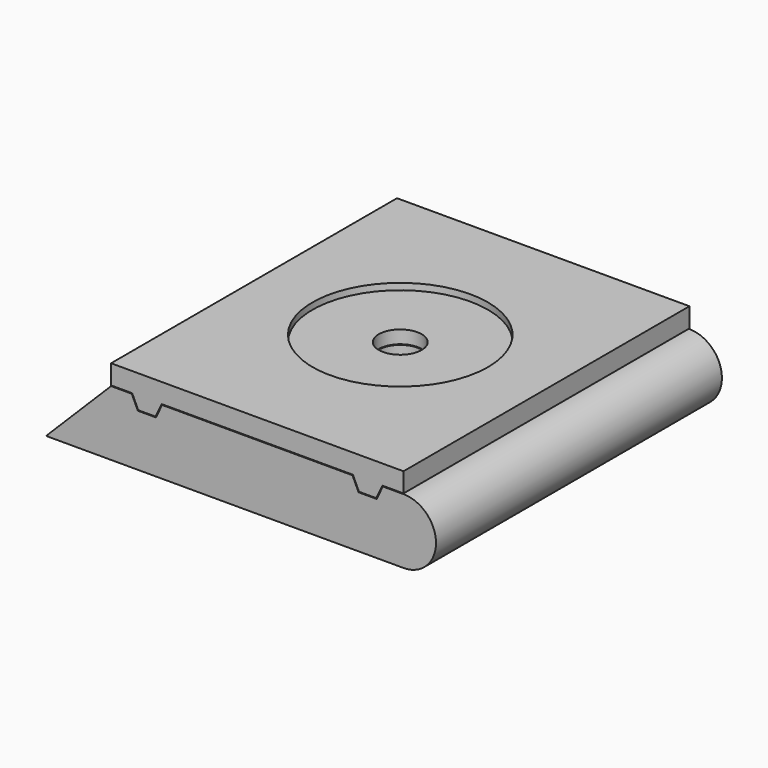
from build123d import *

# Parameters (mm, degrees)
F1_DEPTH  = 55
F3_DEPTH  = 55
F4_R      = 13.5
F5_DEPTH  = 1
F6_R      = 3.3
F7_DEPTH  = 12.101
F8_R      = 3.3
F9_DEPTH  = 25
F10_R     = 6
F11_DEPTH = 7


with BuildPart() as f1:
    # F0 (on Front) → F1 (new body)
    with BuildSketch(Plane.XZ):
        with BuildLine():
            Line((-27.5, -5), (27.5, -5))
            ThreePointArc((27.5, -5), (32.5, 0), (27.5, 5))
            Line((27.5, 5), (24.314648696, 5))
            Line((24.314648696, 5), (23.3820333797, 3))
            Line((23.3820333797, 3), (20.5841874307, 3))
            Line((20.5841874307, 3), (19.6515721144, 5))
            Line((19.6515721144, 5), (-9.6515721144, 5))
            Line((-9.6515721144, 5), (-10.5841874307, 3))
            Line((-10.5841874307, 3), (-13.3820333797, 3))
            Line((-13.3820333797, 3), (-14.314648696, 5))
            Line((-14.314648696, 5), (-17.5, 5))
            Line((-17.5, 5), (-27.5, -5))
        make_face()
    extrude(amount=F1_DEPTH)


with BuildPart() as f3:
    # F2 (on Front) → F3 (new body)
    with BuildSketch(Plane.XZ):
        with BuildLine():
            Line((23.3183263536, 3.1), (24.2240179173, 5.0422618262))
            ThreePointArc((24.2240179173, 5.0422618262), (24.2609187351, 5.0843391446), (24.314648696, 5.1))
            Line((24.314648696, 5.1), (27.5, 5.1))
            Line((27.5, 5.1), (27.5, 8.1))
            Line((27.5, 8.1), (-17.5, 8.1))
            Line((-17.5, 8.1), (-17.5, 5.1))
            Line((-17.5, 5.1), (-14.314648696, 5.1))
            ThreePointArc((-14.314648696, 5.1), (-14.2609187351, 5.0843391446), (-14.2240179173, 5.0422618262))
            Line((-14.2240179173, 5.0422618262), (-13.3183263536, 3.1))
            Line((-13.3183263536, 3.1), (-10.6478944568, 3.1))
            Line((-10.6478944568, 3.1), (-9.7422028931, 5.0422618262))
            ThreePointArc((-9.7422028931, 5.0422618262), (-9.7053020752, 5.0843391446), (-9.6515721144, 5.1))
            Line((-9.6515721144, 5.1), (19.6515721144, 5.1))
            ThreePointArc((19.6515721144, 5.1), (19.7053020752, 5.0843391446), (19.7422028931, 5.0422618262))
            Line((19.7422028931, 5.0422618262), (20.6478944568, 3.1))
            Line((20.6478944568, 3.1), (23.3183263536, 3.1))
        make_face()
    extrude(amount=F3_DEPTH)

    # F4 (on face) → F5 (cut)
    with BuildSketch(Plane.XY.offset(8.1)):
        with Locations((5, -27.5)):
            Circle(F4_R)
    extrude(amount=-F5_DEPTH, mode=Mode.SUBTRACT)


with BuildPart() as f7_tool:
    # F6 (on face) → F7 (new body, through all)
    with BuildSketch(Plane.XY.offset(7.1)):
        with Locations((5, -27.5)):
            Circle(F6_R)
    extrude(amount=-F7_DEPTH)


with BuildPart() as f1_1:
    add(f1.part)

    # F7: cut by f7_tool
    add(f7_tool.part, mode=Mode.SUBTRACT)

    # F8 (on face) → F9 (cut)
    with BuildSketch(Plane.XY.offset(5)):
        with Locations((5, -27.5)):
            Circle(F8_R)
    extrude(amount=-F9_DEPTH, mode=Mode.SUBTRACT)

    # F10 (on face) → F11 (cut)
    with BuildSketch(Plane(origin=(0, 0, -5), x_dir=(1, 0, 0), z_dir=(0, 0, -1))):
        with Locations((5, 27.5)):
            Circle(F10_R)
    extrude(amount=-F11_DEPTH, mode=Mode.SUBTRACT)


with BuildPart() as f3_1:
    add(f3.part)

    # F7: cut by f7_tool
    add(f7_tool.part, mode=Mode.SUBTRACT)


solid = Compound([f1_1.part, f3_1.part])
